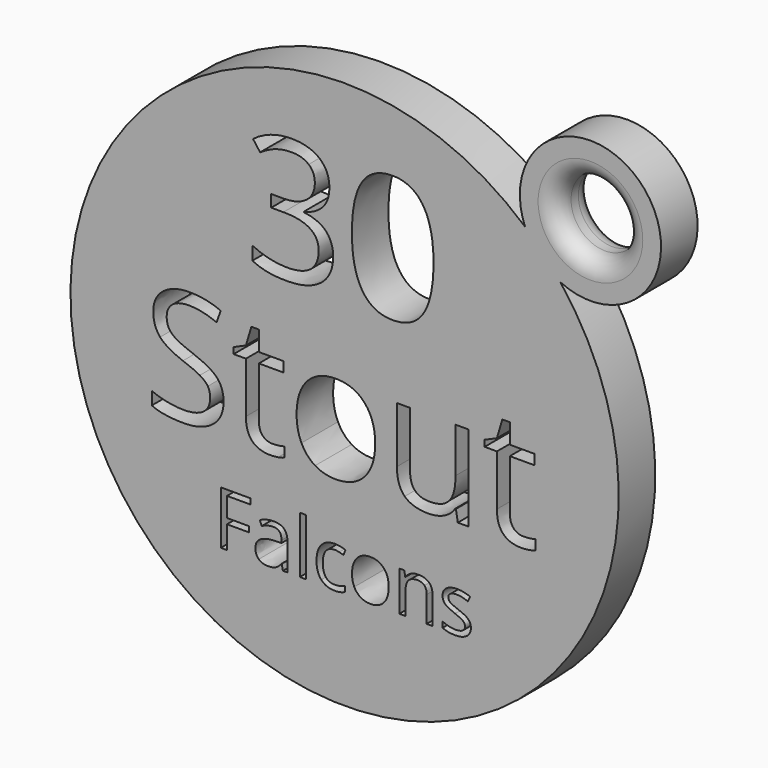
from build123d import *

# Parameters (mm, degrees)
F0_R     = 19.05
F0_W     = 0.4204097325
F0_H     = 3.9392148925
F1_DEPTH = 3.175
F2_R     = 4.905375
F2_R_2   = 2.365375
F3_DEPTH = 3.175
F4_R     = 1.27
F5_R     = 1.27


with BuildPart() as f1:
    # F0 (on Front) → F1 (new body)
    with BuildSketch(Plane.XZ):
        Circle(F0_R)
        Polygon((-8.1724735865, -10.5965899929), (-8.1724735865, -12.1785942465), (-8.6026037752, -12.1785942465), (-8.6026037752, -8.4775305319), (-6.5394369376, -8.4775305319), (-6.5394369376, -8.8598684775), (-8.1724735865, -8.8598684775), (-8.1724735865, -10.2142520474), (-6.6382615761, -10.2142520474), (-6.6382615761, -10.5965899929), align=None, mode=Mode.SUBTRACT)
        with BuildLine():
            Line((-3.9724264514, -12.1785942465), (-4.2842910892, -12.1785942465))
            Line((-4.2842910892, -12.1785942465), (-4.3677250053, -11.7832956926))
            Line((-4.3677250053, -11.7832956926), (-4.3879759558, -11.7832956926))
            add(Edge.make_bspline(
                [(-4.3879759558, -11.7832956926), (-4.595345689, -12.0441279351), (-4.8015003651, -12.1368772885)],
                knots=[0, 0, 0, 1, 1, 1], degree=2))
            add(Edge.make_bspline(
                [(-4.8015003651, -12.1368772885), (-5.0076550413, -12.2296266418), (-5.317089565, -12.2296266418)],
                knots=[0, 0, 0, 1, 1, 1], degree=2))
            add(Edge.make_bspline(
                [(-5.317089565, -12.2296266418), (-5.7293989173, -12.2296266418), (-5.9634999052, -12.0165866425)],
                knots=[0, 0, 0, 1, 1, 1], degree=2))
            add(Edge.make_bspline(
                [(-5.9634999052, -12.0165866425), (-6.197600893, -11.8035466431), (-6.197600893, -11.4114882413)],
                knots=[0, 0, 0, 1, 1, 1], degree=2))
            add(Edge.make_bspline(
                [(-6.197600893, -11.4114882413), (-6.197600893, -10.5714788143), (-4.8537478174, -10.5309769133)],
                knots=[0, 0, 0, 1, 1, 1], degree=2))
            Line((-4.8537478174, -10.5309769133), (-4.3831157277, -10.5155861909))
            Line((-4.3831157277, -10.5155861909), (-4.3831157277, -10.3430480926))
            add(Edge.make_bspline(
                [(-4.3831157277, -10.3430480926), (-4.3831157277, -10.0166027704), (-4.5232523052, -9.8610754705)],
                knots=[0, 0, 0, 1, 1, 1], degree=2))
            add(Edge.make_bspline(
                [(-4.5232523052, -9.8610754705), (-4.6633888827, -9.7055481706), (-4.9728234064, -9.7055481706)],
                knots=[0, 0, 0, 1, 1, 1], degree=2))
            add(Edge.make_bspline(
                [(-4.9728234064, -9.7055481706), (-5.3195196791, -9.7055481706), (-5.75694021, -9.9177781319)],
                knots=[0, 0, 0, 1, 1, 1], degree=2))
            Line((-5.75694021, -9.9177781319), (-5.8865462933, -9.5961930379))
            add(Edge.make_bspline(
                [(-5.8865462933, -9.5961930379), (-5.6816066741, -9.4852178291), (-5.437380211, -9.4220348635)],
                knots=[0, 0, 0, 1, 1, 1], degree=2))
            add(Edge.make_bspline(
                [(-5.437380211, -9.4220348635), (-5.1931537479, -9.358851898), (-4.9469021898, -9.358851898)],
                knots=[0, 0, 0, 1, 1, 1], degree=2))
            add(Edge.make_bspline(
                [(-4.9469021898, -9.358851898), (-4.4511589214, -9.358851898), (-4.2117926864, -9.5787772205)],
                knots=[0, 0, 0, 1, 1, 1], degree=2))
            add(Edge.make_bspline(
                [(-4.2117926864, -9.5787772205), (-3.9724264514, -9.798702543), (-3.9724264514, -10.2847253551)],
                knots=[0, 0, 0, 1, 1, 1], degree=2))
            Line((-3.9724264514, -10.2847253551), (-3.9724264514, -12.1785942465))
        make_face(mode=Mode.SUBTRACT)
        with Locations((-2.8971009795, -10.2089868002)):
            Rectangle(F0_W, F0_H, mode=Mode.SUBTRACT)
        with BuildLine():
            add(Edge.make_bspline(
                [(0.0137706463, -12.0846298362), (-0.2640723946, -12.2296266418), (-0.6869122412, -12.2296266418)],
                knots=[0, 0, 0, 1, 1, 1], degree=2))
            add(Edge.make_bspline(
                [(-0.6869122412, -12.2296266418), (-1.2895805283, -12.2296266418), (-1.6200760405, -11.8586292285)],
                knots=[0, 0, 0, 1, 1, 1], degree=2))
            add(Edge.make_bspline(
                [(-1.6200760405, -11.8586292285), (-1.9505715528, -11.4876318152), (-1.9505715528, -10.8088199542)],
                knots=[0, 0, 0, 1, 1, 1], degree=2))
            add(Edge.make_bspline(
                [(-1.9505715528, -10.8088199542), (-1.9505715528, -10.1129972948), (-1.6148107934, -9.7330894633)],
                knots=[0, 0, 0, 1, 1, 1], degree=2))
            add(Edge.make_bspline(
                [(-1.6148107934, -9.7330894633), (-1.279050034, -9.3531816318), (-0.6593709485, -9.3531816318)],
                knots=[0, 0, 0, 1, 1, 1], degree=2))
            add(Edge.make_bspline(
                [(-0.6593709485, -9.3531816318), (-0.4592915575, -9.3531816318), (-0.2592121665, -9.3965186659)],
                knots=[0, 0, 0, 1, 1, 1], degree=2))
            add(Edge.make_bspline(
                [(-0.2592121665, -9.3965186659), (-0.0591327755, -9.4398557), (0.0542725474, -9.4981784374)],
                knots=[0, 0, 0, 1, 1, 1], degree=2))
            Line((0.0542725474, -9.4981784374), (-0.0745234979, -9.8545951664))
            add(Edge.make_bspline(
                [(-0.0745234979, -9.8545951664), (-0.2138500374, -9.798702543), (-0.3782877555, -9.7622508321)],
                knots=[0, 0, 0, 1, 1, 1], degree=2))
            add(Edge.make_bspline(
                [(-0.3782877555, -9.7622508321), (-0.5427254736, -9.7257991211), (-0.6690914047, -9.7257991211)],
                knots=[0, 0, 0, 1, 1, 1], degree=2))
            add(Edge.make_bspline(
                [(-0.6690914047, -9.7257991211), (-1.5147710979, -9.7257991211), (-1.5147710979, -10.8039597261)],
                knots=[0, 0, 0, 1, 1, 1], degree=2))
            add(Edge.make_bspline(
                [(-1.5147710979, -10.8039597261), (-1.5147710979, -11.3150937169), (-1.3086164217, -11.5884815487)],
                knots=[0, 0, 0, 1, 1, 1], degree=2))
            add(Edge.make_bspline(
                [(-1.3086164217, -11.5884815487), (-1.1024617456, -11.8618693806), (-0.6974427354, -11.8618693806)],
                knots=[0, 0, 0, 1, 1, 1], degree=2))
            add(Edge.make_bspline(
                [(-0.6974427354, -11.8618693806), (-0.3507464628, -11.8618693806), (0.0137706463, -11.7128223849)],
                knots=[0, 0, 0, 1, 1, 1], degree=2))
            Line((0.0137706463, -11.7128223849), (0.0137706463, -12.0846298362))
        make_face(mode=Mode.SUBTRACT)
        with BuildLine():
            add(Edge.make_bspline(
                [(-8.8767527629, -1.8495440503), (-8.4083683099, -2.3595626769), (-8.4083683099, -3.1714290621)],
                knots=[0, 0, 0, 1, 1, 1], degree=2))
            add(Edge.make_bspline(
                [(-8.4083683099, -3.1714290621), (-8.4083683099, -4.2174876738), (-9.1673245995, -4.8038356187)],
                knots=[0, 0, 0, 1, 1, 1], degree=2))
            add(Edge.make_bspline(
                [(-9.1673245995, -4.8038356187), (-9.9262808891, -5.3901835636), (-11.2273488141, -5.3901835636)],
                knots=[0, 0, 0, 1, 1, 1], degree=2))
            add(Edge.make_bspline(
                [(-11.2273488141, -5.3901835636), (-12.6359716876, -5.3901835636), (-13.3957953558, -5.0258845446)],
                knots=[0, 0, 0, 1, 1, 1], degree=2))
            Line((-13.3957953558, -5.0258845446), (-13.3957953558, -4.1376888411))
            add(Edge.make_bspline(
                [(-13.3957953558, -4.1376888411), (-12.906593816, -4.3423901946), (-12.3323891717, -4.4620884437)],
                knots=[0, 0, 0, 1, 1, 1], degree=2))
            add(Edge.make_bspline(
                [(-12.3323891717, -4.4620884437), (-11.7581845275, -4.5817866928), (-11.1943884267, -4.5817866928)],
                knots=[0, 0, 0, 1, 1, 1], degree=2))
            add(Edge.make_bspline(
                [(-11.1943884267, -4.5817866928), (-10.2732323358, -4.5817866928), (-9.80658264, -4.2322331103)],
                knots=[0, 0, 0, 1, 1, 1], degree=2))
            add(Edge.make_bspline(
                [(-9.80658264, -4.2322331103), (-9.3399329442, -3.8826795278), (-9.3399329442, -3.2581669238)],
                knots=[0, 0, 0, 1, 1, 1], degree=2))
            add(Edge.make_bspline(
                [(-9.3399329442, -3.2581669238), (-9.3399329442, -2.8470294595), (-9.50560226, -2.5842137386)],
                knots=[0, 0, 0, 1, 1, 1], degree=2))
            add(Edge.make_bspline(
                [(-9.50560226, -2.5842137386), (-9.6712715758, -2.3213980178), (-10.0589898175, -2.0984817133)],
                knots=[0, 0, 0, 1, 1, 1], degree=2))
            add(Edge.make_bspline(
                [(-10.0589898175, -2.0984817133), (-10.4467080591, -1.8755654088), (-11.2377573575, -1.594534737)],
                knots=[0, 0, 0, 1, 1, 1], degree=2))
            add(Edge.make_bspline(
                [(-11.2377573575, -1.594534737), (-12.3427977151, -1.1990100878), (-12.8172538185, -0.6568984524)],
                knots=[0, 0, 0, 1, 1, 1], degree=2))
            add(Edge.make_bspline(
                [(-12.8172538185, -0.6568984524), (-13.2917099218, -0.114786817), (-13.2917099218, 0.7577960714)],
                knots=[0, 0, 0, 1, 1, 1], degree=2))
            add(Edge.make_bspline(
                [(-13.2917099218, 0.7577960714), (-13.2917099218, 1.6737478906), (-12.6038786788, 2.215859526)],
                knots=[0, 0, 0, 1, 1, 1], degree=2))
            add(Edge.make_bspline(
                [(-12.6038786788, 2.215859526), (-11.9160474357, 2.7579711614), (-10.7815162051, 2.7579711614)],
                knots=[0, 0, 0, 1, 1, 1], degree=2))
            add(Edge.make_bspline(
                [(-10.7815162051, 2.7579711614), (-9.6001465292, 2.7579711614), (-8.6078653918, 2.3242818531)],
                knots=[0, 0, 0, 1, 1, 1], degree=2))
            Line((-8.6078653918, 2.3242818531), (-8.8958350925, 1.5228240113))
            add(Edge.make_bspline(
                [(-8.8958350925, 1.5228240113), (-9.8777076866, 1.9339614756), (-10.8040680492, 1.9339614756)],
                knots=[0, 0, 0, 1, 1, 1], degree=2))
            add(Edge.make_bspline(
                [(-10.8040680492, 1.9339614756), (-11.5361356016, 1.9339614756), (-11.9481404446, 1.6199704163)],
                knots=[0, 0, 0, 1, 1, 1], degree=2))
            add(Edge.make_bspline(
                [(-11.9481404446, 1.6199704163), (-12.3601452875, 1.3059793571), (-12.3601452875, 0.747387528)],
                knots=[0, 0, 0, 1, 1, 1], degree=2))
            add(Edge.make_bspline(
                [(-12.3601452875, 0.747387528), (-12.3601452875, 0.3362500637), (-12.2083540296, 0.0725669642)],
                knots=[0, 0, 0, 1, 1, 1], degree=2))
            add(Edge.make_bspline(
                [(-12.2083540296, 0.0725669642), (-12.0565627716, -0.1911161353), (-11.6957332671, -0.4105629253)],
                knots=[0, 0, 0, 1, 1, 1], degree=2))
            add(Edge.make_bspline(
                [(-11.6957332671, -0.4105629253), (-11.3349037626, -0.6300097153), (-10.5924276667, -0.895427572)],
                knots=[0, 0, 0, 1, 1, 1], degree=2))
            add(Edge.make_bspline(
                [(-10.5924276667, -0.895427572), (-9.3451372159, -1.3395254237), (-8.8767527629, -1.8495440503)],
                knots=[0, 0, 0, 1, 1, 1], degree=2))
        make_face(mode=Mode.SUBTRACT)
        with BuildLine():
            add(Edge.make_bspline(
                [(-5.702147026, -4.3588703883), (-5.4471377127, -4.6459727105), (-5.0030398609, -4.6459727105)],
                knots=[0, 0, 0, 1, 1, 1], degree=2))
            add(Edge.make_bspline(
                [(-5.0030398609, -4.6459727105), (-4.7636433627, -4.6459727105), (-4.5415944369, -4.6112775658)],
                knots=[0, 0, 0, 1, 1, 1], degree=2))
            add(Edge.make_bspline(
                [(-4.5415944369, -4.6112775658), (-4.319545511, -4.5765824211), (-4.1894387185, -4.538417762)],
                knots=[0, 0, 0, 1, 1, 1], degree=2))
            Line((-4.1894387185, -4.538417762), (-4.1894387185, -5.2271163836))
            add(Edge.make_bspline(
                [(-4.1894387185, -5.2271163836), (-4.3351583261, -5.296506673), (-4.6196585124, -5.3433451183)],
                knots=[0, 0, 0, 1, 1, 1], degree=2))
            add(Edge.make_bspline(
                [(-4.6196585124, -5.3433451183), (-4.9041586986, -5.3901835636), (-5.1331466534, -5.3901835636)],
                knots=[0, 0, 0, 1, 1, 1], degree=2))
            add(Edge.make_bspline(
                [(-5.1331466534, -5.3901835636), (-6.8557605861, -5.3901835636), (-6.8557605861, -3.5738927403)],
                knots=[0, 0, 0, 1, 1, 1], degree=2))
            Line((-6.8557605861, -3.5738927403), (-6.8557605861, -0.0384574987))
            Line((-6.8557605861, -0.0384574987), (-7.7075263877, -0.0384574987))
            Line((-7.7075263877, -0.0384574987), (-7.7075263877, 0.3952318096))
            Line((-7.7075263877, 0.3952318096), (-6.8557605861, 0.769939372))
            Line((-6.8557605861, 0.769939372), (-6.4775835093, 2.0380469096))
            Line((-6.4775835093, 2.0380469096), (-5.9571563393, 2.0380469096))
            Line((-5.9571563393, 2.0380469096), (-5.9571563393, 0.6606496663))
            Line((-5.9571563393, 0.6606496663), (-4.2328076493, 0.6606496663))
            Line((-4.2328076493, 0.6606496663), (-4.2328076493, -0.0384574987))
            Line((-4.2328076493, -0.0384574987), (-5.9571563393, -0.0384574987))
            Line((-5.9571563393, -0.0384574987), (-5.9571563393, -3.5357280811))
            add(Edge.make_bspline(
                [(-5.9571563393, -3.5357280811), (-5.9571563393, -4.0717680662), (-5.702147026, -4.3588703883)],
                knots=[0, 0, 0, 1, 1, 1], degree=2))
        make_face(mode=Mode.SUBTRACT)
        with BuildLine():
            add(Edge.make_bspline(
                [(1.3904079225, -0.0601419642), (2.1250776108, -0.8902233003), (2.1250776108, -2.3040504455)],
                knots=[0, 0, 0, 1, 1, 1], degree=2))
            add(Edge.make_bspline(
                [(2.1250776108, -2.3040504455), (2.1250776108, -3.757777007), (1.393877437, -4.5739802853)],
                knots=[0, 0, 0, 1, 1, 1], degree=2))
            add(Edge.make_bspline(
                [(1.393877437, -4.5739802853), (0.6626772631, -5.3901835636), (-0.6279821185, -5.3901835636)],
                knots=[0, 0, 0, 1, 1, 1], degree=2))
            add(Edge.make_bspline(
                [(-0.6279821185, -5.3901835636), (-1.4259704458, -5.3901835636), (-2.0435440209, -5.0154760012)],
                knots=[0, 0, 0, 1, 1, 1], degree=2))
            add(Edge.make_bspline(
                [(-2.0435440209, -5.0154760012), (-2.6611175959, -4.6407684388), (-2.9976604992, -3.9416612737)],
                knots=[0, 0, 0, 1, 1, 1], degree=2))
            add(Edge.make_bspline(
                [(-2.9976604992, -3.9416612737), (-3.3342034025, -3.2425541087), (-3.3342034025, -2.3040504455)],
                knots=[0, 0, 0, 1, 1, 1], degree=2))
            add(Edge.make_bspline(
                [(-3.3342034025, -2.3040504455), (-3.3342034025, -0.8520586412), (-2.6073401217, -0.0410596346)],
                knots=[0, 0, 0, 1, 1, 1], degree=2))
            add(Edge.make_bspline(
                [(-2.6073401217, -0.0410596346), (-1.8804768409, 0.769939372), (-0.5898174593, 0.769939372)],
                knots=[0, 0, 0, 1, 1, 1], degree=2))
            add(Edge.make_bspline(
                [(-0.5898174593, 0.769939372), (0.6557382342, 0.769939372), (1.3904079225, -0.0601419642)],
                knots=[0, 0, 0, 1, 1, 1], degree=2))
        make_face(mode=Mode.SUBTRACT)
        with BuildLine():
            add(Edge.make_bspline(
                [(2.7237528431, -9.7407848245), (3.0668039447, -10.1283880172), (3.0668039447, -10.7885690037)],
                knots=[0, 0, 0, 1, 1, 1], degree=2))
            add(Edge.make_bspline(
                [(3.0668039447, -10.7885690037), (3.0668039447, -11.4673808647), (2.7253729192, -11.8485037532)],
                knots=[0, 0, 0, 1, 1, 1], degree=2))
            add(Edge.make_bspline(
                [(2.7253729192, -11.8485037532), (2.3839418936, -12.2296266418), (1.7812736066, -12.2296266418)],
                knots=[0, 0, 0, 1, 1, 1], degree=2))
            add(Edge.make_bspline(
                [(1.7812736066, -12.2296266418), (1.4086561172, -12.2296266418), (1.120282582, -12.0546584294)],
                knots=[0, 0, 0, 1, 1, 1], degree=2))
            add(Edge.make_bspline(
                [(1.120282582, -12.0546584294), (0.8319090468, -11.879690217), (0.6747616709, -11.5532448949)],
                knots=[0, 0, 0, 1, 1, 1], degree=2))
            add(Edge.make_bspline(
                [(0.6747616709, -11.5532448949), (0.5176142949, -11.2267995727), (0.5176142949, -10.7885690037)],
                knots=[0, 0, 0, 1, 1, 1], degree=2))
            add(Edge.make_bspline(
                [(0.5176142949, -10.7885690037), (0.5176142949, -10.1105671808), (0.8570202254, -9.7318744063)],
                knots=[0, 0, 0, 1, 1, 1], degree=2))
            add(Edge.make_bspline(
                [(0.8570202254, -9.7318744063), (1.1964261559, -9.3531816318), (1.799094443, -9.3531816318)],
                knots=[0, 0, 0, 1, 1, 1], degree=2))
            add(Edge.make_bspline(
                [(1.799094443, -9.3531816318), (2.3807017416, -9.3531816318), (2.7237528431, -9.7407848245)],
                knots=[0, 0, 0, 1, 1, 1], degree=2))
        make_face(mode=Mode.SUBTRACT)
        with BuildLine():
            Line((6.1230773952, -12.1785942465), (5.7026676627, -12.1785942465))
            Line((5.7026676627, -12.1785942465), (5.7026676627, -10.3835499936))
            add(Edge.make_bspline(
                [(5.7026676627, -10.3835499936), (5.7026676627, -10.0449541011), (5.5483554198, -9.8776812499)],
                knots=[0, 0, 0, 1, 1, 1], degree=2))
            add(Edge.make_bspline(
                [(5.5483554198, -9.8776812499), (5.3940431769, -9.7104083988), (5.0643577027, -9.7104083988)],
                knots=[0, 0, 0, 1, 1, 1], degree=2))
            add(Edge.make_bspline(
                [(5.0643577027, -9.7104083988), (4.6293672858, -9.7104083988), (4.4268577807, -9.9457244436)],
                knots=[0, 0, 0, 1, 1, 1], degree=2))
            add(Edge.make_bspline(
                [(4.4268577807, -9.9457244436), (4.2243482757, -10.1810404885), (4.2243482757, -10.7229559241)],
                knots=[0, 0, 0, 1, 1, 1], degree=2))
            Line((4.2243482757, -10.7229559241), (4.2243482757, -12.1785942465))
            Line((4.2243482757, -12.1785942465), (3.8039385432, -12.1785942465))
            Line((3.8039385432, -12.1785942465), (3.8039385432, -9.4042140271))
            Line((3.8039385432, -9.4042140271), (4.1457745877, -9.4042140271))
            Line((4.1457745877, -9.4042140271), (4.2138177814, -9.7841218586))
            Line((4.2138177814, -9.7841218586), (4.2340687319, -9.7841218586))
            add(Edge.make_bspline(
                [(4.2340687319, -9.7841218586), (4.3636748152, -9.5791822395), (4.596560746, -9.4661819356)],
                knots=[0, 0, 0, 1, 1, 1], degree=2))
            add(Edge.make_bspline(
                [(4.596560746, -9.4661819356), (4.8294466768, -9.3531816318), (5.115390098, -9.3531816318)],
                knots=[0, 0, 0, 1, 1, 1], degree=2))
            add(Edge.make_bspline(
                [(5.115390098, -9.3531816318), (5.6168036325, -9.3531816318), (5.8699405139, -9.5949779809)],
                knots=[0, 0, 0, 1, 1, 1], degree=2))
            add(Edge.make_bspline(
                [(5.8699405139, -9.5949779809), (6.1230773952, -9.8367743299), (6.1230773952, -10.3689693092)],
                knots=[0, 0, 0, 1, 1, 1], degree=2))
            Line((6.1230773952, -10.3689693092), (6.1230773952, -12.1785942465))
        make_face(mode=Mode.SUBTRACT)
        with BuildLine():
            add(Edge.make_bspline(
                [(8.6017937372, -10.9635372161), (8.7751418735, -11.1457957707), (8.7751418735, -11.4220187356)],
                knots=[0, 0, 0, 1, 1, 1], degree=2))
            add(Edge.make_bspline(
                [(8.7751418735, -11.4220187356), (8.7751418735, -11.8092169093), (8.4867683383, -12.0194217755)],
                knots=[0, 0, 0, 1, 1, 1], degree=2))
            add(Edge.make_bspline(
                [(8.4867683383, -12.0194217755), (8.1983948031, -12.2296266418), (7.6767303181, -12.2296266418)],
                knots=[0, 0, 0, 1, 1, 1], degree=2))
            add(Edge.make_bspline(
                [(7.6767303181, -12.2296266418), (7.1250944263, -12.2296266418), (6.8164699405, -12.0546584294)],
                knots=[0, 0, 0, 1, 1, 1], degree=2))
            Line((6.8164699405, -12.0546584294), (6.8164699405, -11.6650301417))
            add(Edge.make_bspline(
                [(6.8164699405, -11.6650301417), (7.0165493315, -11.7662848942), (7.2453850723, -11.8242026126)],
                knots=[0, 0, 0, 1, 1, 1], degree=2))
            add(Edge.make_bspline(
                [(7.2453850723, -11.8242026126), (7.474220813, -11.8821203311), (7.6872608123, -11.8821203311)],
                knots=[0, 0, 0, 1, 1, 1], degree=2))
            add(Edge.make_bspline(
                [(7.6872608123, -11.8821203311), (8.0161362485, -11.8821203311), (8.193129556, -11.7772204075)],
                knots=[0, 0, 0, 1, 1, 1], degree=2))
            add(Edge.make_bspline(
                [(8.193129556, -11.7772204075), (8.3701228634, -11.6723204838), (8.3701228634, -11.4568503705)],
                knots=[0, 0, 0, 1, 1, 1], degree=2))
            add(Edge.make_bspline(
                [(8.3701228634, -11.4568503705), (8.3701228634, -11.2948427664), (8.2299862859, -11.1798173675)],
                knots=[0, 0, 0, 1, 1, 1], degree=2))
            add(Edge.make_bspline(
                [(8.2299862859, -11.1798173675), (8.0898497084, -11.0647919686), (7.6815905462, -10.9076445927)],
                knots=[0, 0, 0, 1, 1, 1], degree=2))
            add(Edge.make_bspline(
                [(7.6815905462, -10.9076445927), (7.2943923725, -10.7634578251), (7.1311697114, -10.6557227684)],
                knots=[0, 0, 0, 1, 1, 1], degree=2))
            add(Edge.make_bspline(
                [(7.1311697114, -10.6557227684), (6.9679470503, -10.5479877117), (6.8881583053, -10.4114963053)],
                knots=[0, 0, 0, 1, 1, 1], degree=2))
            add(Edge.make_bspline(
                [(6.8881583053, -10.4114963053), (6.8083695603, -10.2750048989), (6.8083695603, -10.0854560021)],
                knots=[0, 0, 0, 1, 1, 1], degree=2))
            add(Edge.make_bspline(
                [(6.8083695603, -10.0854560021), (6.8083695603, -9.7460500717), (7.0845925252, -9.5496158517)],
                knots=[0, 0, 0, 1, 1, 1], degree=2))
            add(Edge.make_bspline(
                [(7.0845925252, -9.5496158517), (7.3608154901, -9.3531816318), (7.8411680362, -9.3531816318)],
                knots=[0, 0, 0, 1, 1, 1], degree=2))
            add(Edge.make_bspline(
                [(7.8411680362, -9.3531816318), (8.2891190614, -9.3531816318), (8.7176291741, -9.5354401864)],
                knots=[0, 0, 0, 1, 1, 1], degree=2))
            Line((8.7176291741, -9.5354401864), (8.5677721403, -9.8772762309))
            add(Edge.make_bspline(
                [(8.5677721403, -9.8772762309), (8.1506025599, -9.7055481706), (7.8111966294, -9.7055481706)],
                knots=[0, 0, 0, 1, 1, 1], degree=2))
            add(Edge.make_bspline(
                [(7.8111966294, -9.7055481706), (7.5122925999, -9.7055481706), (7.3604104711, -9.799107562)],
                knots=[0, 0, 0, 1, 1, 1], degree=2))
            add(Edge.make_bspline(
                [(7.3604104711, -9.799107562), (7.2085283423, -9.8926669533), (7.2085283423, -10.0571046714)],
                knots=[0, 0, 0, 1, 1, 1], degree=2))
            add(Edge.make_bspline(
                [(7.2085283423, -10.0571046714), (7.2085283423, -10.1688899182), (7.2656360228, -10.2470585872)],
                knots=[0, 0, 0, 1, 1, 1], degree=2))
            add(Edge.make_bspline(
                [(7.2656360228, -10.2470585872), (7.3227437032, -10.3252272561), (7.4491096344, -10.3961055829)],
                knots=[0, 0, 0, 1, 1, 1], degree=2))
            add(Edge.make_bspline(
                [(7.4491096344, -10.3961055829), (7.5754755655, -10.4669839097), (7.9351324465, -10.6014502211)],
                knots=[0, 0, 0, 1, 1, 1], degree=2))
            add(Edge.make_bspline(
                [(7.9351324465, -10.6014502211), (8.4284456009, -10.7812786615), (8.6017937372, -10.9635372161)],
                knots=[0, 0, 0, 1, 1, 1], degree=2))
        make_face(mode=Mode.SUBTRACT)
        with BuildLine():
            Line((3.6395206755, 0.6606496663), (4.550268223, 0.6606496663))
            Line((4.550268223, 0.6606496663), (4.550268223, -3.1939809062))
            add(Edge.make_bspline(
                [(4.550268223, -3.1939809062), (4.550268223, -3.9208441869), (4.880739476, -4.278204177)],
                knots=[0, 0, 0, 1, 1, 1], degree=2))
            add(Edge.make_bspline(
                [(4.880739476, -4.278204177), (5.2112107289, -4.6355641671), (5.9155221657, -4.6355641671)],
                knots=[0, 0, 0, 1, 1, 1], degree=2))
            add(Edge.make_bspline(
                [(5.9155221657, -4.6355641671), (6.8488215572, -4.6355641671), (7.279041351, -4.1264129191)],
                knots=[0, 0, 0, 1, 1, 1], degree=2))
            add(Edge.make_bspline(
                [(7.279041351, -4.1264129191), (7.7092611449, -3.6172616711), (7.7092611449, -2.4619133537)],
                knots=[0, 0, 0, 1, 1, 1], degree=2))
            Line((7.7092611449, -2.4619133537), (7.7092611449, 0.6606496663))
            Line((7.7092611449, 0.6606496663), (8.609600149, 0.6606496663))
            Line((8.609600149, 0.6606496663), (8.609600149, -5.2808938579))
            Line((8.609600149, -5.2808938579), (7.8671240531, -5.2808938579))
            Line((7.8671240531, -5.2808938579), (7.7370172606, -4.4846402878))
            Line((7.7370172606, -4.4846402878), (7.6884440581, -4.4846402878))
            add(Edge.make_bspline(
                [(7.6884440581, -4.4846402878), (7.412617658, -4.9235338678), (6.921681361, -5.1568587157)],
                knots=[0, 0, 0, 1, 1, 1], degree=2))
            add(Edge.make_bspline(
                [(6.921681361, -5.1568587157), (6.430745064, -5.3901835636), (5.8010281883, -5.3901835636)],
                knots=[0, 0, 0, 1, 1, 1], degree=2))
            add(Edge.make_bspline(
                [(5.8010281883, -5.3901835636), (4.7168049174, -5.3901835636), (4.1781627965, -4.8749606653)],
                knots=[0, 0, 0, 1, 1, 1], degree=2))
            add(Edge.make_bspline(
                [(4.1781627965, -4.8749606653), (3.6395206755, -4.359737767), (3.6395206755, -3.2269412936)],
                knots=[0, 0, 0, 1, 1, 1], degree=2))
            Line((3.6395206755, -3.2269412936), (3.6395206755, 0.6606496663))
        make_face(mode=Mode.SUBTRACT)
        with BuildLine():
            add(Edge.make_bspline(
                [(11.7373674407, -4.3588703883), (11.992376754, -4.6459727105), (12.4364746057, -4.6459727105)],
                knots=[0, 0, 0, 1, 1, 1], degree=2))
            add(Edge.make_bspline(
                [(12.4364746057, -4.6459727105), (12.6758711039, -4.6459727105), (12.8979200298, -4.6112775658)],
                knots=[0, 0, 0, 1, 1, 1], degree=2))
            add(Edge.make_bspline(
                [(12.8979200298, -4.6112775658), (13.1199689557, -4.5765824211), (13.2500757482, -4.538417762)],
                knots=[0, 0, 0, 1, 1, 1], degree=2))
            Line((13.2500757482, -4.538417762), (13.2500757482, -5.2271163836))
            add(Edge.make_bspline(
                [(13.2500757482, -5.2271163836), (13.1043561406, -5.296506673), (12.8198559543, -5.3433451183)],
                knots=[0, 0, 0, 1, 1, 1], degree=2))
            add(Edge.make_bspline(
                [(12.8198559543, -5.3433451183), (12.535355768, -5.3901835636), (12.3063678132, -5.3901835636)],
                knots=[0, 0, 0, 1, 1, 1], degree=2))
            add(Edge.make_bspline(
                [(12.3063678132, -5.3901835636), (10.5837538805, -5.3901835636), (10.5837538805, -3.5738927403)],
                knots=[0, 0, 0, 1, 1, 1], degree=2))
            Line((10.5837538805, -3.5738927403), (10.5837538805, -0.0384574987))
            Line((10.5837538805, -0.0384574987), (9.731988079, -0.0384574987))
            Line((9.731988079, -0.0384574987), (9.731988079, 0.3952318096))
            Line((9.731988079, 0.3952318096), (10.5837538805, 0.769939372))
            Line((10.5837538805, 0.769939372), (10.9619309574, 2.0380469096))
            Line((10.9619309574, 2.0380469096), (11.4823581274, 2.0380469096))
            Line((11.4823581274, 2.0380469096), (11.4823581274, 0.6606496663))
            Line((11.4823581274, 0.6606496663), (13.2067068173, 0.6606496663))
            Line((13.2067068173, 0.6606496663), (13.2067068173, -0.0384574987))
            Line((13.2067068173, -0.0384574987), (11.4823581274, -0.0384574987))
            Line((11.4823581274, -0.0384574987), (11.4823581274, -3.5357280811))
            add(Edge.make_bspline(
                [(11.4823581274, -3.5357280811), (11.4823581274, -4.0717680662), (11.7373674407, -4.3588703883)],
                knots=[0, 0, 0, 1, 1, 1], degree=2))
        make_face(mode=Mode.SUBTRACT)
        with BuildLine():
            add(Edge.make_bspline(
                [(-1.7504590695, 13.8828695138), (-1.0577841133, 13.3112718874), (-1.0577841133, 12.314495731)],
                knots=[0, 0, 0, 1, 1, 1], degree=2))
            add(Edge.make_bspline(
                [(-1.0577841133, 12.314495731), (-1.0577841133, 11.4922961895), (-1.5186288334, 10.9704435125)],
                knots=[0, 0, 0, 1, 1, 1], degree=2))
            add(Edge.make_bspline(
                [(-1.5186288334, 10.9704435125), (-1.9794735536, 10.4485908355), (-2.8241991099, 10.2721370526)],
                knots=[0, 0, 0, 1, 1, 1], degree=2))
            Line((-2.8241991099, 10.2721370526), (-2.8241991099, 10.225207855))
            add(Edge.make_bspline(
                [(-2.8241991099, 10.225207855), (-1.7917567633, 10.0975604376), (-1.2933686851, 9.569137673)],
                knots=[0, 0, 0, 1, 1, 1], degree=2))
            add(Edge.make_bspline(
                [(-1.2933686851, 9.569137673), (-0.7949806069, 9.0407149083), (-0.7949806069, 8.1847263446)],
                knots=[0, 0, 0, 1, 1, 1], degree=2))
            add(Edge.make_bspline(
                [(-0.7949806069, 8.1847263446), (-0.7949806069, 6.958935704), (-1.6453376669, 6.2981726022)],
                knots=[0, 0, 0, 1, 1, 1], degree=2))
            add(Edge.make_bspline(
                [(-1.6453376669, 6.2981726022), (-2.4956947269, 5.6374095003), (-4.0612527579, 5.6374095003)],
                knots=[0, 0, 0, 1, 1, 1], degree=2))
            add(Edge.make_bspline(
                [(-4.0612527579, 5.6374095003), (-4.7426647067, 5.6374095003), (-5.3086308294, 5.740653735)],
                knots=[0, 0, 0, 1, 1, 1], degree=2))
            add(Edge.make_bspline(
                [(-5.3086308294, 5.740653735), (-5.8745969521, 5.8438979697), (-6.4077126365, 6.1010699724)],
                knots=[0, 0, 0, 1, 1, 1], degree=2))
            Line((-6.4077126365, 6.1010699724), (-6.4077126365, 7.0283909164))
            add(Edge.make_bspline(
                [(-6.4077126365, 7.0283909164), (-5.8501937694, 6.7524472347), (-5.219465354, 6.6088438901)],
                knots=[0, 0, 0, 1, 1, 1], degree=2))
            add(Edge.make_bspline(
                [(-5.219465354, 6.6088438901), (-4.5887369386, 6.4652405455), (-4.0255865678, 6.4652405455)],
                knots=[0, 0, 0, 1, 1, 1], degree=2))
            add(Edge.make_bspline(
                [(-4.0255865678, 6.4652405455), (-1.8030197707, 6.4652405455), (-1.8030197707, 8.2072523594)],
                knots=[0, 0, 0, 1, 1, 1], degree=2))
            add(Edge.make_bspline(
                [(-1.8030197707, 8.2072523594), (-1.8030197707, 9.7690560546), (-4.2546010519, 9.7690560546)],
                knots=[0, 0, 0, 1, 1, 1], degree=2))
            Line((-4.2546010519, 9.7690560546), (-5.0993266082, 9.7690560546))
            Line((-5.0993266082, 9.7690560546), (-5.0993266082, 10.6062729393))
            Line((-5.0993266082, 10.6062729393), (-4.2433380445, 10.6062729393))
            add(Edge.make_bspline(
                [(-4.2433380445, 10.6062729393), (-3.2409303844, 10.6062729393), (-2.6543154147, 11.0492845644)],
                knots=[0, 0, 0, 1, 1, 1], degree=2))
            add(Edge.make_bspline(
                [(-2.6543154147, 11.0492845644), (-2.067700445, 11.4922961895), (-2.067700445, 12.2788295408)],
                knots=[0, 0, 0, 1, 1, 1], degree=2))
            add(Edge.make_bspline(
                [(-2.067700445, 12.2788295408), (-2.067700445, 12.9058036204), (-2.4985104788, 13.2643426898)],
                knots=[0, 0, 0, 1, 1, 1], degree=2))
            add(Edge.make_bspline(
                [(-2.4985104788, 13.2643426898), (-2.9293205125, 13.6228817593), (-3.6689246662, 13.6228817593)],
                knots=[0, 0, 0, 1, 1, 1], degree=2))
            add(Edge.make_bspline(
                [(-3.6689246662, 13.6228817593), (-4.2320750371, 13.6228817593), (-4.7304631153, 13.4698925752)],
                knots=[0, 0, 0, 1, 1, 1], degree=2))
            add(Edge.make_bspline(
                [(-4.7304631153, 13.4698925752), (-5.2288511935, 13.3169033911), (-5.8689654484, 12.9058036204)],
                knots=[0, 0, 0, 1, 1, 1], degree=2))
            Line((-5.8689654484, 12.9058036204), (-6.360783439, 13.5628123864))
            add(Edge.make_bspline(
                [(-6.360783439, 13.5628123864), (-5.8332992583, 13.9795436608), (-5.1443786379, 14.2170054005)],
                knots=[0, 0, 0, 1, 1, 1], degree=2))
            add(Edge.make_bspline(
                [(-5.1443786379, 14.2170054005), (-4.4554580175, 14.4544671403), (-3.6914506811, 14.4544671403)],
                knots=[0, 0, 0, 1, 1, 1], degree=2))
            add(Edge.make_bspline(
                [(-3.6914506811, 14.4544671403), (-2.4431340256, 14.4544671403), (-1.7504590695, 13.8828695138)],
                knots=[0, 0, 0, 1, 1, 1], degree=2))
        make_face(mode=Mode.SUBTRACT)
        with BuildLine():
            add(Edge.make_bspline(
                [(5.4559885098, 13.3347364862), (6.1805753203, 12.2018656568), (6.1805753203, 10.0562627438)],
                knots=[0, 0, 0, 1, 1, 1], degree=2))
            add(Edge.make_bspline(
                [(6.1805753203, 10.0562627438), (6.1805753203, 7.8318187788), (5.4794531086, 6.7346141396)],
                knots=[0, 0, 0, 1, 1, 1], degree=2))
            add(Edge.make_bspline(
                [(5.4794531086, 6.7346141396), (4.7783308968, 5.6374095003), (3.3347887795, 5.6374095003)],
                knots=[0, 0, 0, 1, 1, 1], degree=2))
            add(Edge.make_bspline(
                [(3.3347887795, 5.6374095003), (1.9513160351, 5.6374095003), (1.2295449764, 6.7608944902)],
                knots=[0, 0, 0, 1, 1, 1], degree=2))
            add(Edge.make_bspline(
                [(1.2295449764, 6.7608944902), (0.5077739177, 7.8843794801), (0.5077739177, 10.0562627438)],
                knots=[0, 0, 0, 1, 1, 1], degree=2))
            add(Edge.make_bspline(
                [(0.5077739177, 10.0562627438), (0.5077739177, 12.2957240519), (1.2060803776, 13.3816656838)],
                knots=[0, 0, 0, 1, 1, 1], degree=2))
            add(Edge.make_bspline(
                [(1.2060803776, 13.3816656838), (1.9043868375, 14.4676073156), (3.3347887795, 14.4676073156)],
                knots=[0, 0, 0, 1, 1, 1], degree=2))
            add(Edge.make_bspline(
                [(3.3347887795, 14.4676073156), (4.7314016993, 14.4676073156), (5.4559885098, 13.3347364862)],
                knots=[0, 0, 0, 1, 1, 1], degree=2))
        make_face(mode=Mode.SUBTRACT)
    extrude(amount=F1_DEPTH)

    # F2 (on Front) → F3 (join)
    with BuildSketch(Plane.XZ):
        with Locations((17.0846780024, 16.1852256177)):
            Circle(F2_R)
        with Locations((17.0846780024, 16.1852256177)):
            Circle(F2_R_2, mode=Mode.SUBTRACT)
    extrude(amount=F3_DEPTH)

    # F4
    f4_edges = [f1.edges().sort_by_distance(p)[0] for p in [
        (14.719303, -3.175, 16.185226),
    ]]
    fillet(f4_edges, radius=F4_R)

    # F5
    f5_edges = [f1.edges().sort_by_distance(p)[0] for p in [
        (14.719303, 0, 16.185226),
    ]]
    fillet(f5_edges, radius=F5_R)


solid = f1.part
